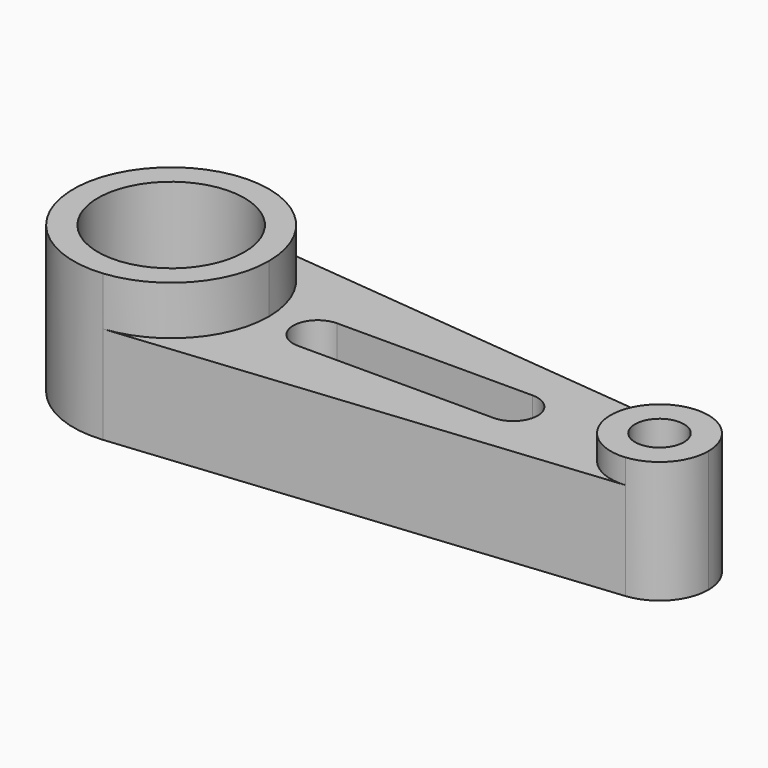
from build123d import *

# Parameters (mm, degrees)
F1_DEPTH = 25.4
F0_R     = 19.05
F2_DEPTH = 38.1
F0_R_2   = 6.35
F3_DEPTH = 31.75


with BuildPart() as f1:
    # F0 (on Top) → F1 (new body)
    with BuildSketch(Plane.XY):
        with BuildLine():
            ThreePointArc((-57.334389, 30.716833), (-41.037245, 22.48299), (-34.474389, 5.444152))
            ThreePointArc((-34.474389, 5.444152), (-41.037245, -11.594686), (-57.334389, -19.828529))
            Line((-57.334389, -19.828529), (68.395611, -7.192188))
            ThreePointArc((68.395611, -7.192188), (54.425611, 5.444152), (68.395611, 18.080493))
            Line((68.395611, 18.080493), (-57.334389, 30.716833))
        make_face()
        with BuildLine():
            ThreePointArc((-21.767291, -0.904586), (-28.124385, 5.438312), (-21.781487, 11.795406))
            Line((-21.781487, 11.795406), (29.018513, 11.85219))
            ThreePointArc((29.018513, 11.85219), (29.022062, 11.852193), (29.025611, 11.852194))
            ThreePointArc((29.025611, 11.852194), (35.37561, 5.505743), (29.032709, -0.847802))
            Line((29.032709, -0.847802), (-21.767291, -0.904586))
        make_face(mode=Mode.SUBTRACT)
    extrude(amount=F1_DEPTH)

    # F0 (on Top) → F2 (join)
    with BuildSketch(Plane.XY):
        with BuildLine():
            ThreePointArc((-57.334389, -19.828529), (-41.037245, -11.594686), (-34.474389, 5.444152))
            ThreePointArc((-34.474389, 5.444152), (-41.037245, 22.48299), (-57.334389, 30.716833))
            ThreePointArc((-57.334389, 30.716833), (-85.274389, 5.444152), (-57.334389, -19.828529))
        make_face()
        with Locations((-59.874389, 5.444152)):
            Circle(F0_R, mode=Mode.SUBTRACT)
    extrude(amount=F2_DEPTH)

    # F0 (on Top) → F3 (join)
    with BuildSketch(Plane.XY):
        with BuildLine():
            ThreePointArc((79.825611, 5.444152), (76.544183, 13.963571), (68.395611, 18.080493))
            ThreePointArc((68.395611, 18.080493), (54.425611, 5.444152), (68.395611, -7.192188))
            ThreePointArc((68.395611, -7.192188), (76.544183, -3.075267), (79.825611, 5.444152))
        make_face()
        with Locations((67.125611, 5.444152)):
            Circle(F0_R_2, mode=Mode.SUBTRACT)
    extrude(amount=F3_DEPTH)


solid = f1.part
